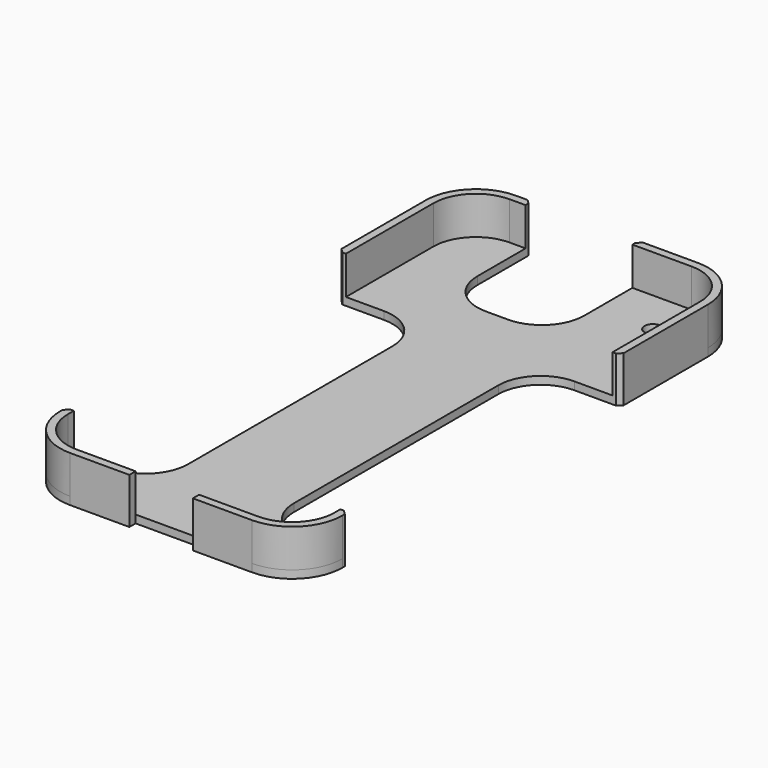
from build123d import *

# Parameters (mm, degrees)
F3_W     = 1.85
F3_H     = 9
F1_R     = 2
F5_DEPTH = 1.85
F6_W     = 25.2441216726
F6_H     = 31.736315228
F6_W_2   = 15
F6_H_2   = 17.6660341024
F6_W_3   = 32.0804953698
F6_H_3   = 80.390445888
F6_W_4   = 30.8194325197
F7_DEPTH = 25
F8_R     = 10
F9_SIZE  = 1


with BuildPart() as f4:
    # F4: sweep along a path in F1
    with BuildLine(Plane.XY) as f4_path:
        Line((10.75, 0.5), (10.75, -107.5))
        ThreePointArc((10.75, -107.5), (7.8210678119, -114.5710678119), (0.75, -117.5))
        Line((0.75, -117.5), (-42.25, -117.5))
        ThreePointArc((-42.25, -117.5), (-49.3210678119, -114.5710678119), (-52.25, -107.5))
        Line((-52.25, -107.5), (-52.25, 0.5))
        ThreePointArc((-52.25, 0.5), (-49.3210678119, 7.5710678119), (-42.25, 10.5))
        Line((-42.25, 10.5), (0.75, 10.5))
        ThreePointArc((0.75, 10.5), (7.8210678119, 7.5710678119), (10.75, 0.5))
    # F3 (on line) → F4 (sweep)
    with BuildSketch(Plane.XZ.offset(53.5)):
        with Locations((11.675, 4.5)):
            Rectangle(F3_W, F3_H)
    sweep(path=f4_path.line)

    # F1 (on Top) → F5 (join)
    with BuildSketch(Plane.XY):
        with BuildLine():
            Line((0.75, 12.35), (-42.25, 12.35))
            ThreePointArc((-42.25, 12.35), (-50.6292153571, 8.8792153571), (-54.1, 0.5))
            Line((-54.1, 0.5), (-54.1, -107.5))
            ThreePointArc((-54.1, -107.5), (-50.6292153571, -115.8792153571), (-42.25, -119.35))
            Line((-42.25, -119.35), (0.75, -119.35))
            ThreePointArc((0.75, -119.35), (9.1292153571, -115.8792153571), (12.6, -107.5))
            Line((12.6, -107.5), (12.6, 0.5))
            ThreePointArc((12.6, 0.5), (9.1292153571, 8.8792153571), (0.75, 12.35))
        make_face()
        with BuildLine():
            Line((-42.25, 10.5), (0.75, 10.5))
            ThreePointArc((0.75, 10.5), (7.8210678119, 7.5710678119), (10.75, 0.5))
            Line((10.75, 0.5), (10.75, -107.5))
            ThreePointArc((10.75, -107.5), (7.8210678119, -114.5710678119), (0.75, -117.5))
            Line((0.75, -117.5), (-42.25, -117.5))
            ThreePointArc((-42.25, -117.5), (-49.3210678119, -114.5710678119), (-52.25, -107.5))
            Line((-52.25, -107.5), (-52.25, 0.5))
            ThreePointArc((-52.25, 0.5), (-49.3210678119, 7.5710678119), (-42.25, 10.5))
        make_face(mode=Mode.SUBTRACT)
        with BuildLine():
            ThreePointArc((10.75, 0.5), (7.8210678119, 7.5710678119), (0.75, 10.5))
            Line((0.75, 10.5), (-42.25, 10.5))
            ThreePointArc((-42.25, 10.5), (-49.3210678119, 7.5710678119), (-52.25, 0.5))
            Line((-52.25, 0.5), (-52.25, -107.5))
            ThreePointArc((-52.25, -107.5), (-49.3210678119, -114.5710678119), (-42.25, -117.5))
            Line((-42.25, -117.5), (0.75, -117.5))
            ThreePointArc((0.75, -117.5), (7.8210678119, -114.5710678119), (10.75, -107.5))
            Line((10.75, -107.5), (10.75, 0.5))
        make_face()
        Circle(F1_R, mode=Mode.SUBTRACT)
    extrude(amount=-F5_DEPTH)

    # F6 (on Top) → F7 (cut, symmetric)
    with BuildSketch(Plane.XY):
        with Locations((-25.8720608363, 2.1293233149)):
            Rectangle(F6_W, F6_H)
        with Locations((-20.75, -126.3330170512)):
            Rectangle(F6_W_2, F6_H_2)
        with Locations((-49.2902476849, -65.5702464283)):
            Rectangle(F6_W_3, F6_H_3)
        with Locations((7.1597162599, -65.5702464283)):
            Rectangle(F6_W_4, F6_H_3)
    extrude(amount=F7_DEPTH, both=True, mode=Mode.SUBTRACT)

    # F8
    f8_edges = [f4.edges().sort_by_distance(p)[0] for p in [
        (-33.25, -25.375023, -0.925),
        (-8.25, -25.375023, -0.925),
        (-8.25, -105.765469, -0.925),
        (-33.25, -105.765469, -0.925),
        (-38.494122, -13.738834, -0.925),
        (-13.25, -13.738834, -0.925),
    ]]
    fillet(f8_edges, radius=F8_R)

    # F9
    f9_edges = [f4.edges().sort_by_distance(p)[0] for p in [
        (-54.1, -25.375023, 3.575),
        (12.6, -25.375023, 3.575),
        (-13.25, 12.35, 3.575),
        (-38.494122, 12.35, 3.575),
        (-54.1, -105.765469, 3.575),
        (12.6, -105.765469, 3.575),
    ]]
    chamfer(f9_edges, length=F9_SIZE)


solid = f4.part
